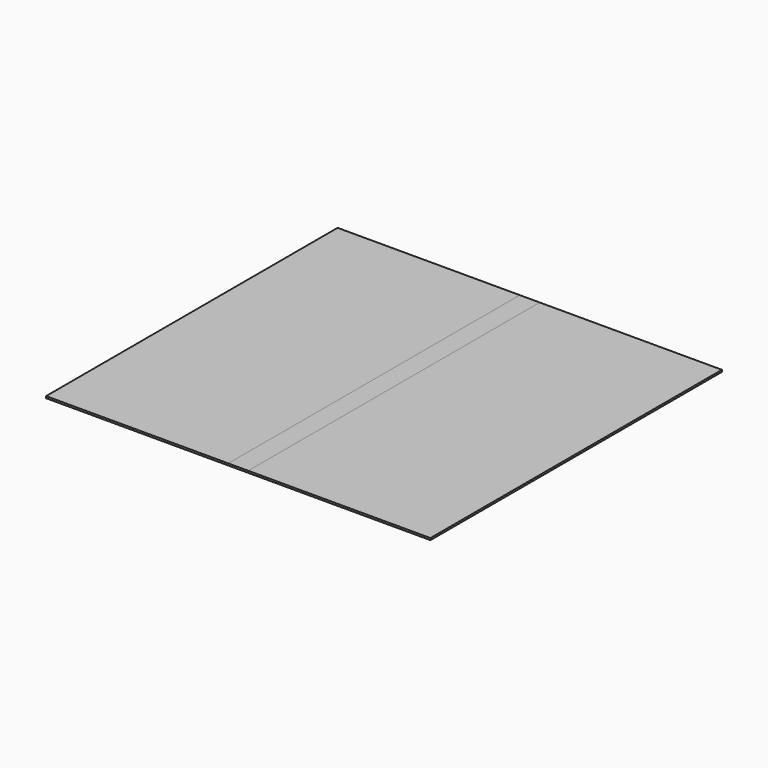
from build123d import *

# Parameters (mm, degrees)
F0_W     = 1219.2
F0_H     = 2438.4
F1_DEPTH = 12.7
F2_DEPTH = 12.7
F0_W_2   = 133.35
F3_DEPTH = 12.7


with BuildPart() as f1:
    # F0 (on Top) → F1 (new body)
    with BuildSketch(Plane.XY):
        with Locations((-676.275, 0)):
            Rectangle(F0_W, F0_H)
    extrude(amount=F1_DEPTH)


with BuildPart() as f2:
    # F0 (on Top) → F2 (new body)
    with BuildSketch(Plane.XY):
        with Locations((676.275, 0)):
            Rectangle(F0_W, F0_H)
    extrude(amount=F2_DEPTH)


with BuildPart() as f3:
    # F0 (on Top) → F3 (new body)
    with BuildSketch(Plane.XY):
        Rectangle(F0_W_2, F0_H)
    extrude(amount=F3_DEPTH)


solid = Compound([f1.part, f2.part, f3.part])
